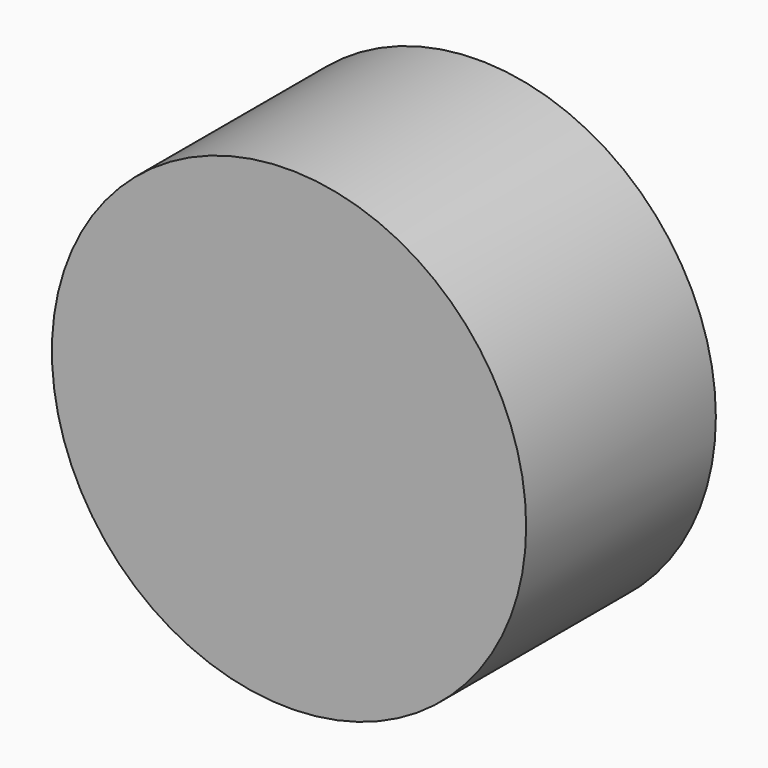
from build123d import *

# Parameters (mm, degrees)
F0_R     = 25.4
F0_R_2   = 19.05
F0_R_3   = 6.35
F1_DEPTH = 25.4
F2_DEPTH = 0.635
F3_DEPTH = 3.175


with BuildPart() as f1:
    # F0 (on Front) → F1 (new body)
    with BuildSketch(Plane.XZ):
        Circle(F0_R)
        Circle(F0_R_2, mode=Mode.SUBTRACT)
        Circle(F0_R_2)
        Circle(F0_R_3, mode=Mode.SUBTRACT)
        Circle(F0_R_3)
    extrude(amount=F1_DEPTH)


with BuildPart() as f2:
    # F0 (on Front) → F2 (new body, symmetric)
    with BuildSketch(Plane.XZ):
        Circle(F0_R_2)
        Circle(F0_R_3, mode=Mode.SUBTRACT)
    extrude(amount=F2_DEPTH, both=True)


with BuildPart() as f3:
    # F0 (on Front) → F3 (new body, symmetric)
    with BuildSketch(Plane.XZ):
        Circle(F0_R_3)
    extrude(amount=F3_DEPTH, both=True)


solid = Compound([f1.part, f2.part, f3.part])
